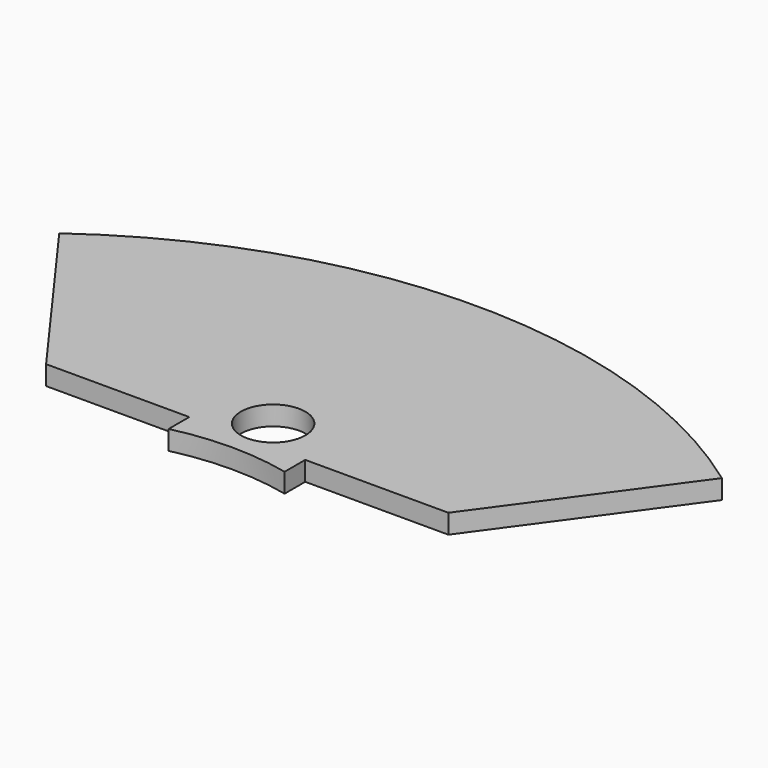
from build123d import *

# Parameters (mm, degrees)
F1_DEPTH = 3
F3_DEPTH = 3.001
F4_R     = 5
F5_DEPTH = 3.001
F7_DEPTH = 3.001
F9_DEPTH = 3.001


with BuildPart() as f1:
    # F0 (on Top) → F1 (new body)
    with BuildSketch(Plane.XY):
        with BuildLine():
            Line((0, 0), (51.4312095756, 70.7889870078))
            ThreePointArc((51.4312095756, 70.7889870078), (0, 87.5), (-51.4312095756, 70.7889870078))
            Line((-51.4312095756, 70.7889870078), (0, 0))
        make_face()
    extrude(amount=F1_DEPTH)

    # F2 (on face) → F3 (cut, through all)
    with BuildSketch(Plane.XY.offset(3)):
        with BuildLine():
            Line((0, 0), (23.5114100917, 32.360679775))
            ThreePointArc((23.5114100917, 32.360679775), (0, 40), (-23.5114100917, 32.360679775))
            Line((-23.5114100917, 32.360679775), (0, 0))
        make_face()
    extrude(amount=-F3_DEPTH, mode=Mode.SUBTRACT)

    # F4 (on face) → F5 (cut, through all)
    with BuildSketch(Plane.XY.offset(3)):
        with Locations((0, 48)):
            Circle(F4_R)
    extrude(amount=-F5_DEPTH, mode=Mode.SUBTRACT)

    # F6 (on face) → F7 (cut, through all)
    with BuildSketch(Plane.XY.offset(3)):
        with BuildLine():
            ThreePointArc((-23.5114100917, 32.360679775), (-16.5886439103, 36.3980341944), (-9, 38.9743505398))
            Line((-9, 38.9743505398), (-28.3165231686, 38.9743505398))
            Line((-28.3165231686, 38.9743505398), (-23.5114100917, 32.360679775))
        make_face()
        with BuildLine():
            Line((28.3165231686, 38.9743505398), (9, 38.9743505398))
            ThreePointArc((9, 38.9743505398), (16.5886439103, 36.3980341944), (23.5114100917, 32.360679775))
            Line((23.5114100917, 32.360679775), (28.3165231686, 38.9743505398))
        make_face()
    extrude(amount=-F7_DEPTH, mode=Mode.SUBTRACT)

    # F8 (on face) → F9 (cut, through all)
    with BuildSketch(Plane.XY.offset(3)):
        Polygon((-28.3165231686, 38.9743505398), (-9, 38.9743505398), (-9, 42.9743505398), (-31.2226932806, 42.9743505398), align=None)
        Polygon((9, 42.9743505398), (9, 38.9743505398), (28.3165231686, 38.9743505398), (31.2226932806, 42.9743505398), align=None)
    extrude(amount=-F9_DEPTH, mode=Mode.SUBTRACT)


solid = f1.part
